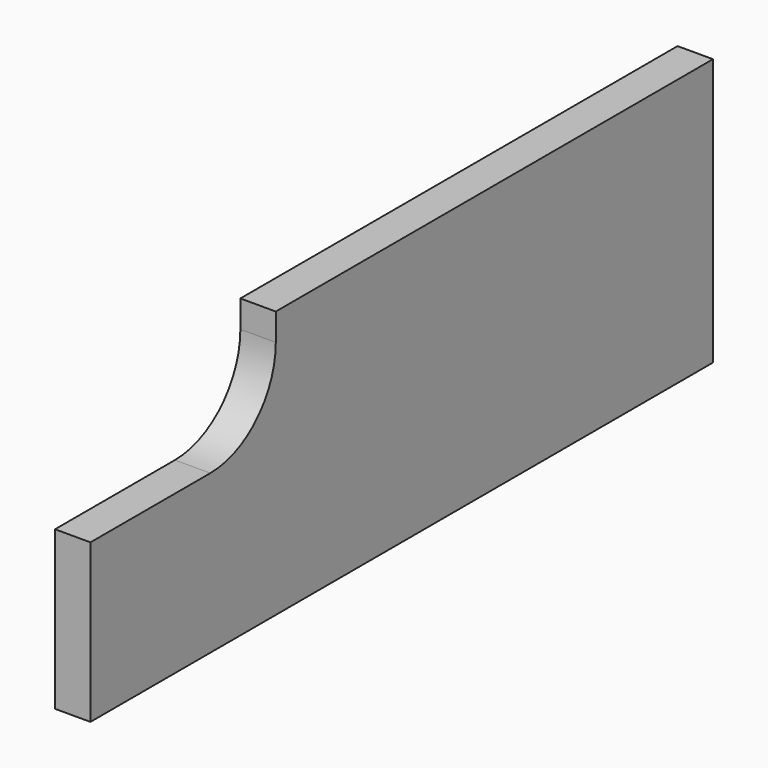
from build123d import *

# Parameters (mm, degrees)
BOX_W        = 26
BOX_H        = 571
BOX_DEPTH    = 196
POCKET_DEPTH = 26.001


with BuildPart() as part:
    # Box → Box (new body)
    with BuildSketch(Plane.XY):
        with Locations((13, 285.5)):
            Rectangle(BOX_W, BOX_H)
    extrude(amount=BOX_DEPTH)

    # Sketch (on Face1 of Box) → Pocket (cut, through all)
    with BuildSketch(Plane(origin=(0, 0, 0), x_dir=(0, -1, 0), z_dir=(-1, 0, 0))):
        with BuildLine():
            ThreePointArc((-170, 176), (-152.426407, 133.573593), (-110, 116))
            Line((-110, 116), (0, 116))
            Line((0, 200), (0, 116))
            Line((-170, 200), (0, 200))
            Line((-170, 200), (-170, 176))
        make_face()
    extrude(amount=-POCKET_DEPTH, mode=Mode.SUBTRACT)


solid = part.part
